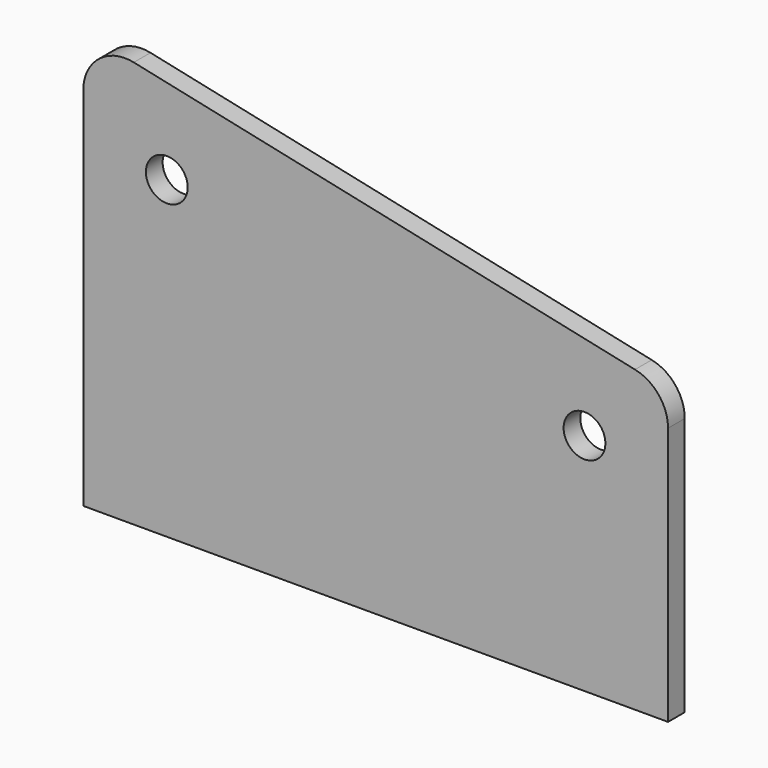
from build123d import *

# Parameters (mm, degrees)
F0_R     = 3.175
F1_DEPTH = 1.5875


with BuildPart() as f1:
    # F0 (on Front) → F1 (new body, symmetric)
    with BuildSketch(Plane.XZ):
        with BuildLine():
            Line((-44.45, 55.6451311606), (-44.45, 0))
            Line((-44.45, 0), (44.45, 0))
            Line((44.45, 0), (44.45, 39.316559732))
            ThreePointArc((44.45, 39.316559732), (43.0381796586, 43.308662143), (39.4305097134, 45.5256050614))
            Line((39.4305097134, 45.5256050614), (-36.7694902866, 61.85417649))
            ThreePointArc((-36.7694902866, 61.85417649), (-42.092102411, 60.5833108191), (-44.45, 55.6451311606))
        make_face()
        with Locations((-31.75, 47.7902623212)):
            Circle(F0_R, mode=Mode.SUBTRACT)
        with Locations((31.75, 34.183119464)):
            Circle(F0_R, mode=Mode.SUBTRACT)
    extrude(amount=F1_DEPTH, both=True)


solid = f1.part
